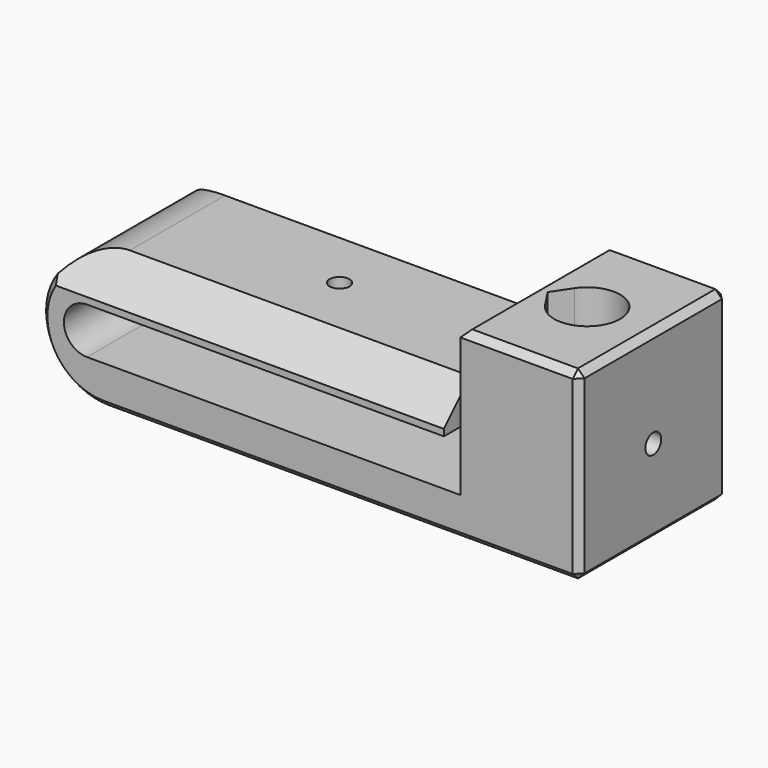
from build123d import *

# Parameters (mm, degrees)
PAD_DEPTH       = 28
POCKET_DEPTH    = 100
SKETCH002_R     = 1.5
POCKET001_DEPTH = 7
POCKET002_DEPTH = 40
SKETCH004_R     = 1.5
POCKET003_DEPTH = 10
CHAMFER_SIZE    = 1


with BuildPart() as part:
    # Sketch → Pad (new body)
    with BuildSketch(Plane.XZ):
        with BuildLine():
            Line((0, 0), (-54.04, 0))
            ThreePointArc((-54.04, 0), (-57.54, -3.5), (-54.04, -7))
            Line((-54.04, -7), (2.5, -7))
            Line((2.5, -7), (2.5, 15))
            Line((2.5, 15), (20.5, 15))
            Line((20.5, -13), (20.5, 15))
            Line((-51.54, -13), (20.5, -13))
            ThreePointArc((-51.54, 6), (-61.04, -3.5), (-51.54, -13))
            Line((0, 6), (-51.54, 6))
            Line((0, 0), (0, 6))
        make_face()
    extrude(amount=PAD_DEPTH)

    # Sketch001 (on Face10 of Pad) → Pocket (cut)
    with BuildSketch(Plane(origin=(0, 0, 0), x_dir=(0, 0, 1), z_dir=(1, 0, 0))):
        Polygon((1, 28), (6, 23), (6, 28), align=None)
        Polygon((6, 5), (1, 0), (6, 0), align=None)
    extrude(amount=-POCKET_DEPTH, mode=Mode.SUBTRACT)

    # Sketch002 (on Face7 of Pocket) → Pocket001 (cut)
    with BuildSketch(Plane(origin=(0, 0, 6), x_dir=(-1, 0, 0), z_dir=(0, 0, 1))):
        with Locations((27, 14)):
            Circle(SKETCH002_R)
    extrude(amount=-POCKET001_DEPTH, mode=Mode.SUBTRACT)

    # Sketch003 (on Face13 of Pocket001) → Pocket002 (cut)
    with BuildSketch(Plane(origin=(0, 0, 15), x_dir=(-1, 0, 0), z_dir=(0, 0, 1))):
        with BuildLine():
            ThreePointArc((-6.333333, 16.763854), (-15.5, 14), (-6.333333, 11.236146))
            Line((-6.333333, 11.236146), (-4.5, 14))
            Line((-4.5, 14), (-6.333333, 16.763854))
        make_face()
    extrude(amount=-POCKET002_DEPTH, mode=Mode.SUBTRACT)

    # Sketch004 (on Face12 of Pocket002) → Pocket003 (cut)
    with BuildSketch(Plane(origin=(20.5, 0, 0), x_dir=(0, 0, 1), z_dir=(1, 0, 0))):
        with Locations((0, 14)):
            Circle(SKETCH004_R)
    extrude(amount=-POCKET003_DEPTH, mode=Mode.SUBTRACT)

    # Chamfer
    chamfer_edges = [part.edges().sort_by_distance(p)[0] for p in [
        (-59.694753, -28, -8.373397),
        (-15.52, -28, -13),
        (20.5, -28, 1),
        (20.5, -14, -13),
        (20.5, 0, 1),
        (20.5, -14, 15),
        (11.5, 0, 15),
        (11.5, -28, 15),
        (2.5, -14, 15),
        (-15.52, 0, -13),
        (-59.694753, 0, -8.373397),
    ]]
    chamfer(chamfer_edges, length=CHAMFER_SIZE)


solid = part.part
